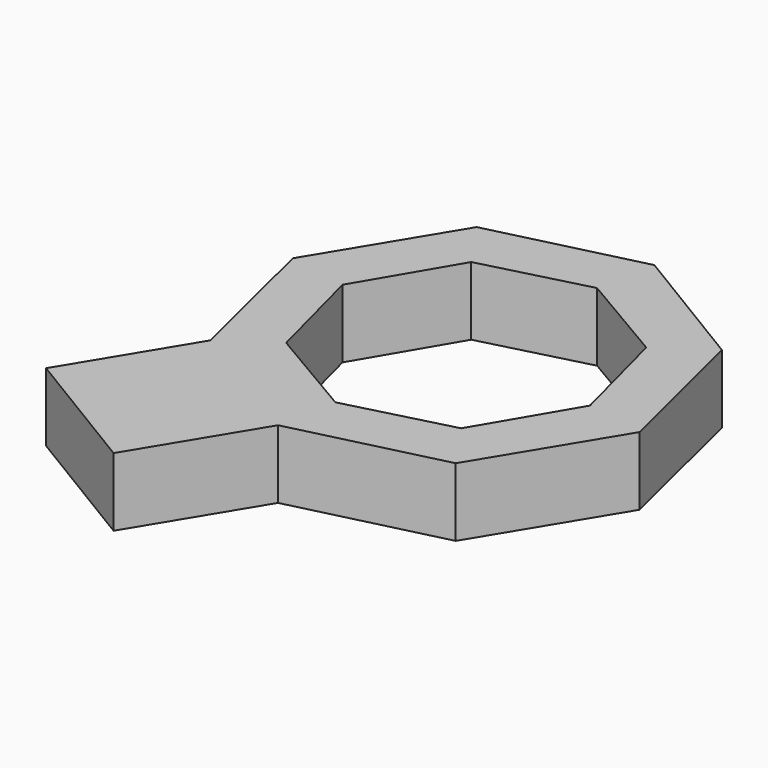
from build123d import *

# Parameters (mm, degrees)
F1_DEPTH = 3.175


with BuildPart() as f1:
    # F0 (on Top) → F1 (new body)
    with BuildSketch(Plane.XY):
        Polygon((1.400762, 9.172466), (-5.495425, 7.476401), (-9.172466, 1.400762), (-7.476401, -5.495425), (-1.400762, -9.172466), (5.495425, -7.476401), (9.172466, -1.400762), (7.476401, 5.495425), align=None)
        Polygon((-5.210624, -3.934993), (-6.466928, 0.902008), (-3.934993, 5.210624), (0.902008, 6.466928), (5.210624, 3.934993), (6.466928, -0.902008), (3.934993, -5.210624), (-0.902008, -6.466928), align=None, mode=Mode.SUBTRACT)
        Polygon((-1.400762, -9.172466), (-7.476401, -5.495425), (-10.764239, -10.927977), (-4.6886, -14.605018), align=None)
    extrude(amount=F1_DEPTH)


solid = f1.part
